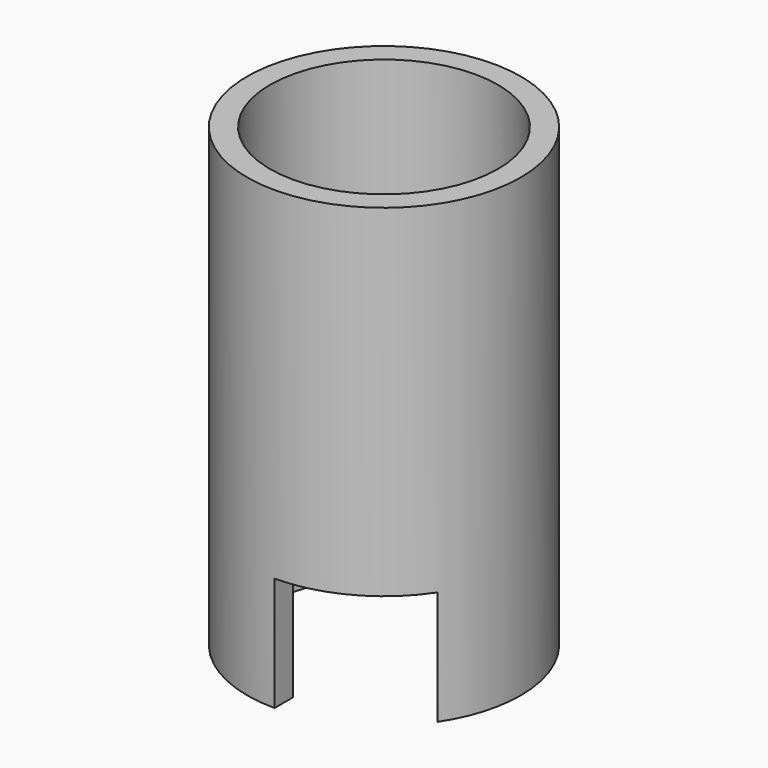
from build123d import *

# Parameters (mm, degrees)
BOX001_W          = 10
BOX001_H          = 20
BOX001_DEPTH      = 10
CYLINDER001_R     = 10
CYLINDER001_DEPTH = 40
CYLINDER002_R     = 12
CYLINDER002_DEPTH = 40


with BuildPart() as cubo:
    # Box001 → Box001 (new body)
    with BuildSketch(Plane(origin=(0, -20, 0), x_dir=(1, 0, 0), z_dir=(0, 0, 1))):
        with Locations((5, 10)):
            Rectangle(BOX001_W, BOX001_H)
    extrude(amount=BOX001_DEPTH)


with BuildPart() as cilindro:
    # Cylinder001 → Cylinder001 (new body)
    with BuildSketch(Plane.XY):
        Circle(CYLINDER001_R)
    extrude(amount=CYLINDER001_DEPTH)


with BuildPart() as exterior_torre:
    # Cylinder002 → Cylinder002 (new body)
    with BuildSketch(Plane.XY):
        Circle(CYLINDER002_R)
    extrude(amount=CYLINDER002_DEPTH)

    # Cut: cut Cilindro
    add(cilindro.part, mode=Mode.SUBTRACT)

    # Cut001: cut Cubo
    add(cubo.part, mode=Mode.SUBTRACT)


solid = exterior_torre.part
